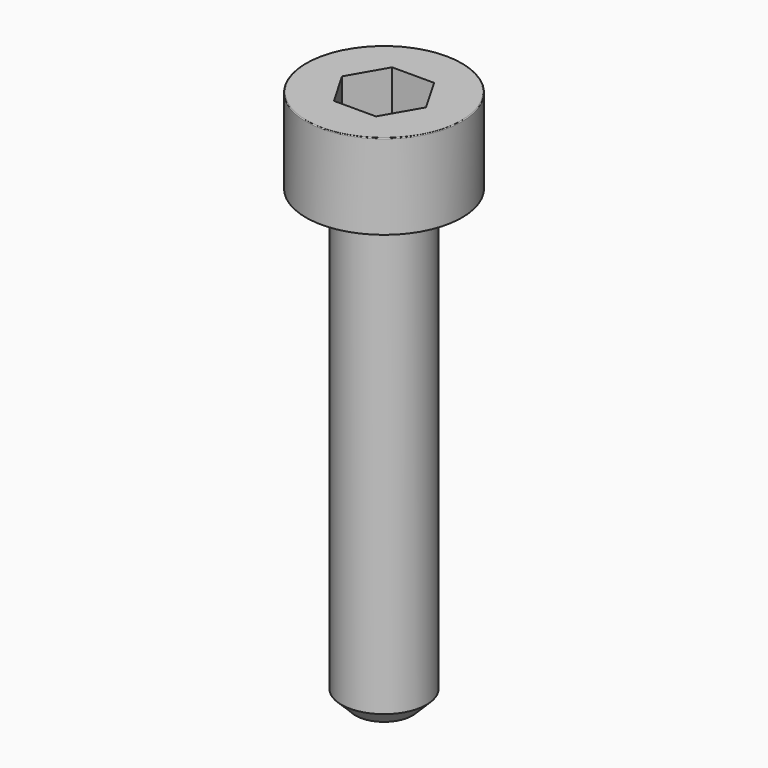
from build123d import *

# Parameters (mm, degrees)
POCKET_DEPTH = 2.56


with BuildPart() as part:
    # Sketch → Revolve (revolve)
    with BuildSketch(Plane.YZ):
        with BuildLine():
            Line((1.499, 0), (2.75, 0))
            Line((2.75, 0), (2.75, 2.97229))
            ThreePointArc((2.75, 2.97229), (2.741884, 2.991884), (2.72229, 3))
            Line((2.72229, 3), (0, 3))
            Line((0, -16), (0, 3))
            Line((1, -16), (0, -16))
            Line((1.5, -15.5), (1, -16))
            Line((1.5, -0.2), (1.5, -15.5))
            Line((1.499, 0), (1.5, -0.2))
        make_face()
    revolve(axis=Axis((0, 0, 0), (0, 0, 1)))

    # Sketch001 → Pocket (cut)
    with BuildSketch(Plane.XY.offset(3)):
        Polygon((1.478017, 0), (0.739008, 1.28), (-0.739008, 1.28), (-1.478017, 0), (-0.739008, -1.28), (0.739008, -1.28), align=None)
    extrude(amount=-POCKET_DEPTH, mode=Mode.SUBTRACT)


solid = part.part
